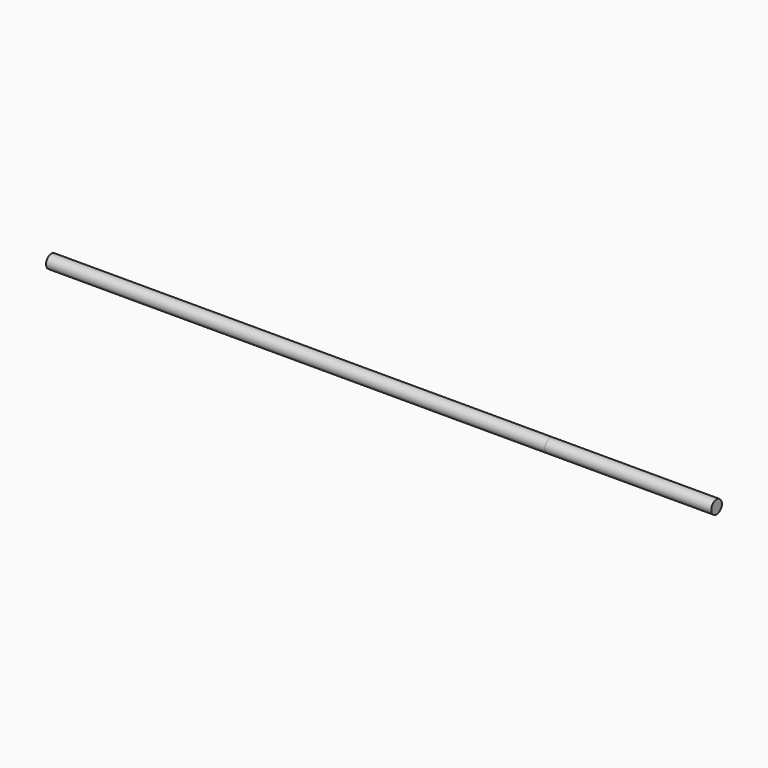
from build123d import *

# Parameters (mm, degrees)
F0_R     = 4
F1_DEPTH = 300
F2_DEPTH = 400
F3_DEPTH = 300


with BuildPart() as f1:
    # F0 (on Right) → F1 (new body)
    with BuildSketch(Plane.YZ):
        Circle(F0_R)
    extrude(amount=F1_DEPTH)


with BuildPart() as f2:
    # F0 (on Right) → F2 (new body)
    with BuildSketch(Plane.YZ):
        Circle(F0_R)
    extrude(amount=F2_DEPTH)


with BuildPart() as f3:
    # F0 (on Right) → F3 (new body)
    with BuildSketch(Plane.YZ):
        Circle(F0_R)
    extrude(amount=F3_DEPTH)


solid = Compound([f1.part, f2.part, f3.part])
